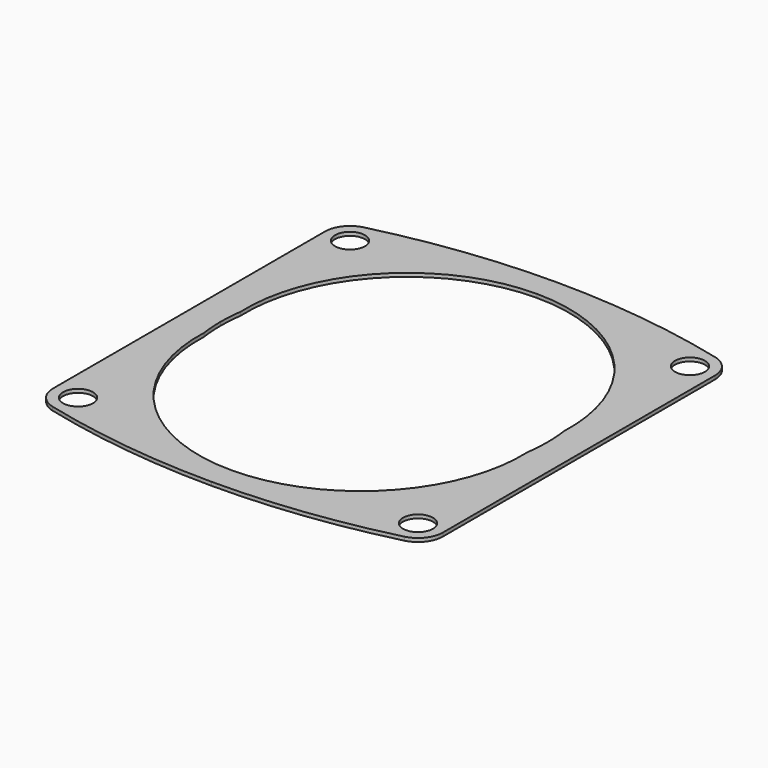
from build123d import *

# Parameters (mm, degrees)
SKETCH007_R                = 4.2
PAD002_DEPTH               = 1
SKETCH007_MIRRORED003_2_R  = 4.2
PAD002_MIRRORED003_2_DEPTH = 1


with BuildPart() as part:
    # Sketch007 → Pad002 (new body)
    with BuildSketch(Plane(origin=(0, 0, 0), x_dir=(-1, 0, 0), z_dir=(0, 0, -1))):
        with BuildLine():
            ThreePointArc((45.75, 0), (45.637926, 3.20034), (45.302255, 6.385))
            ThreePointArc((45.302255, 6.385), (32.680719, 39.586204), (0, 53.5))
            Line((0, 53.5), (0, 60.5))
            ThreePointArc((49.326147, 54.415147), (24.850021, 58.973043), (0, 60.5))
            ThreePointArc((54.625, 47.624978), (53.143522, 51.931496), (49.326147, 54.415147))
            Line((54.625, 47.624978), (54.625, 0))
            Line((54.625, 0), (45.75, 0))
        make_face()
        with Locations((47.625, 47.625)):
            Circle(SKETCH007_R, mode=Mode.SUBTRACT)
    pad002 = extrude(amount=PAD002_DEPTH)

    # Sketch007 Mirrored003 2 → Pad002 Mirrored003 2 (add)
    with BuildSketch(Plane.XY):
        with BuildLine():
            ThreePointArc((45.75, 0), (45.637926, 3.20034), (45.302255, 6.385))
            ThreePointArc((45.302255, 6.385), (32.680719, 39.586204), (0, 53.5))
            Line((0, 53.5), (0, 60.5))
            ThreePointArc((49.326147, 54.415147), (24.850021, 58.973043), (0, 60.5))
            ThreePointArc((54.625, 47.624978), (53.143522, 51.931496), (49.326147, 54.415147))
            Line((54.625, 47.624978), (54.625, 0))
            Line((54.625, 0), (45.75, 0))
        make_face()
        with Locations((47.625, 47.625)):
            Circle(SKETCH007_MIRRORED003_2_R, mode=Mode.SUBTRACT)
    pad002_mirrored003_2 = extrude(amount=-PAD002_MIRRORED003_2_DEPTH)

    # Mirrored004: Pad002, Pad002 Mirrored003 2 across Sketch007 H_Axis
    add(pad002.mirror(Plane(origin=(0, 0, 0), x_dir=(0, 0, -1), z_dir=(0, 1, 0))))
    add(pad002_mirrored003_2.mirror(Plane(origin=(0, 0, 0), x_dir=(0, 0, -1), z_dir=(0, 1, 0))))


solid = part.part
